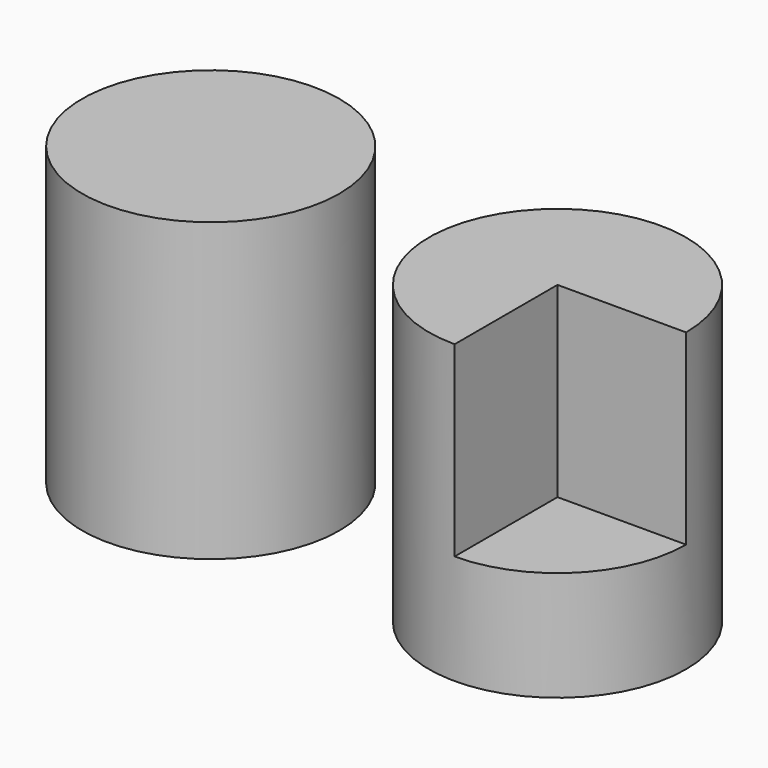
from build123d import *

# Parameters (mm, degrees)
F0_R     = 11.0124100744
F1_DEPTH = 25.4
F3_DEPTH = 16.002


with BuildPart() as f1:
    # F0 (on Top) → F1 (new body)
    with BuildSketch(Plane.XY):
        with Locations((-59.8671808839, -46.6124415398)):
            Circle(F0_R)
    extrude(amount=F1_DEPTH)


with BuildPart() as f1b:
    # F0 (on Top) → F1, piece 2 (new body)
    with BuildSketch(Plane.XY):
        with Locations((-29.2211379856, -47.8051416576)):
            Circle(F0_R)
    extrude(amount=F1_DEPTH)

    # F2 (on face) → F3 (cut)
    with BuildSketch(Plane.XY.offset(25.4)):
        with BuildLine():
            Line((-18.2087279112, -47.8051416576), (-29.2211379856, -47.8051416576))
            Line((-29.2211379856, -47.8051416576), (-29.2211379856, -58.817551732))
            ThreePointArc((-29.2211379856, -58.817551732), (-21.4341881448, -55.5920914984), (-18.2087279112, -47.8051416576))
        make_face()
    extrude(amount=-F3_DEPTH, mode=Mode.SUBTRACT)


solid = Compound([f1.part, f1b.part])
